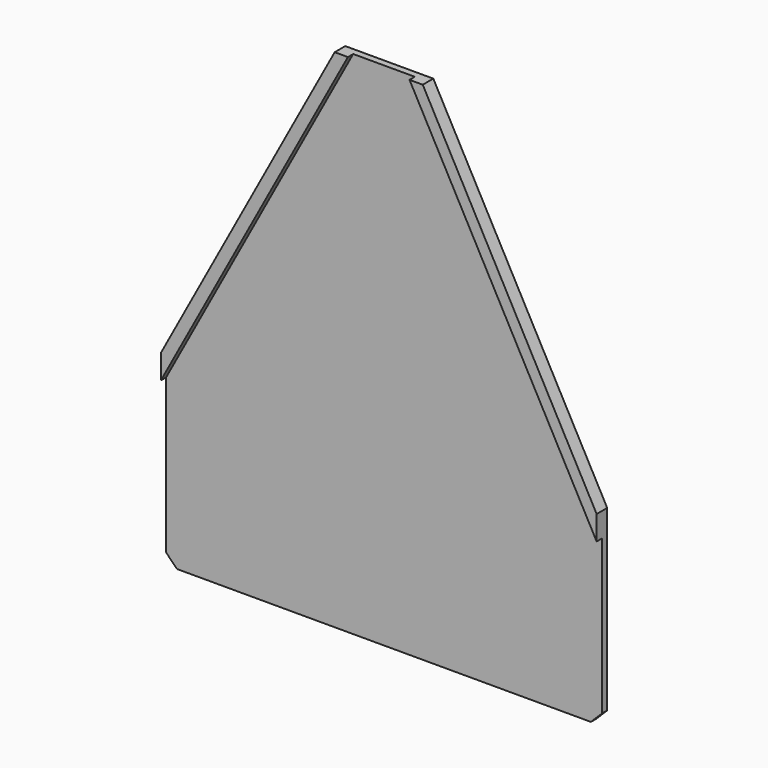
from build123d import *

# Parameters (mm, degrees)
F1_DEPTH = 3
F3_DEPTH = 3


with BuildPart() as f1:
    # F0 (on Front) → F1 (new body)
    with BuildSketch(Plane.XZ):
        Polygon((99, -30), (20, 116), (14, 116), (99, -36), align=None)
        Polygon((99, -36), (14, 116), (0, 116), (0, -116), (94, -116), (94, -111), (99, -111), align=None)
        Polygon((0, -116), (0, 116), (-14, 116), (-99, -36), (-99, -111), (-94, -111), (-94, -116), align=None)
        Polygon((-99, -36), (-14, 116), (-20, 116), (-99, -30), align=None)
        Polygon((94, -116), (99, -111), (94, -111), align=None)
        Polygon((-99, -111), (-94, -116), (-94, -111), align=None)
    extrude(amount=F1_DEPTH)

    # F2 (on face) → F3 (join)
    with BuildSketch(Plane.XZ.offset(3)):
        Polygon((-99, -41), (-14, 116), (-20, 116), (-99, -30), (-99, -36), align=None)
        Polygon((20, 116), (14, 116), (99, -41), (99, -36), (99, -30), align=None)
    extrude(amount=F3_DEPTH)


solid = f1.part
